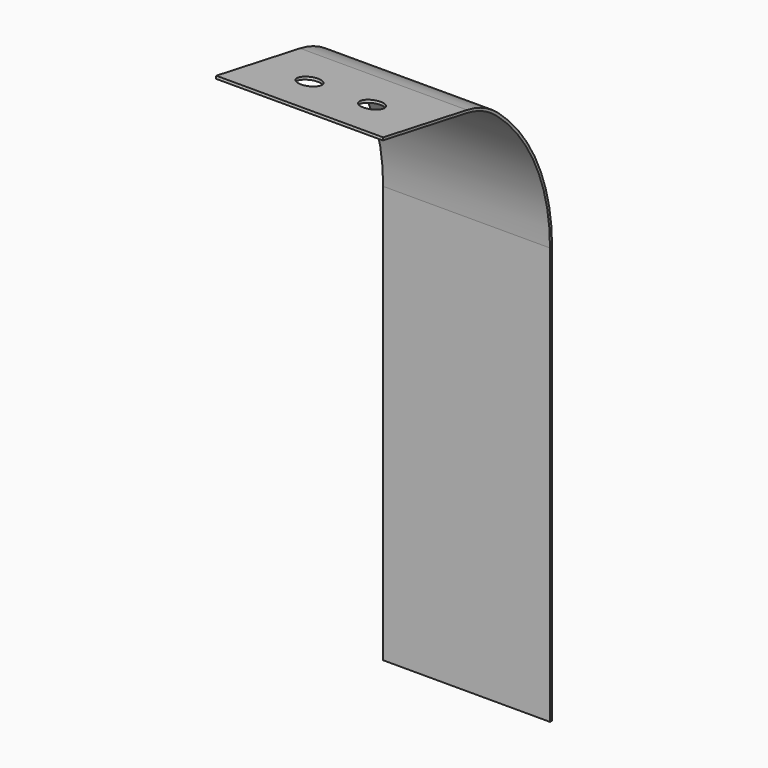
from build123d import *

# Parameters (mm, degrees)
F0_W     = 50.8
F0_H     = 0.7874
F3_R     = 3.3655
F4_DEPTH = 25.4


with BuildPart() as f2:
    # F2: sweep along a path in F1
    with BuildLine(Plane.YZ) as f2_path:
        Line((0, 0), (0, 127))
        ThreePointArc((0, 127), (-5.3913965951, 151.3190184681), (-20.5553226245, 171.0810316215))
        ThreePointArc((-20.5553226245, 171.0810316215), (-25.9637465294, 174.5265776491), (-32.0796557913, 176.4549164323))
        Line((-32.0796557913, 176.4549164323), (-63.9523993907, 182.0749410781))
    # F0 (on Top) → F2 (sweep)
    with BuildSketch(Plane.XY):
        Rectangle(F0_W, F0_H)
    sweep(path=f2_path.line)

    # F3 (on face) → F4 (cut)
    with BuildSketch(Plane(origin=(0, 29.2766132085, 166.0359242292), x_dir=(1, 0, 0), z_dir=(0, 0.1736481777, 0.984807753))):
        with Locations((-9.525, -78.7228004607)):
            Circle(F3_R)
        with Locations((9.525, -78.7228004607)):
            Circle(F3_R)
    extrude(amount=-F4_DEPTH, mode=Mode.SUBTRACT)


solid = f2.part
